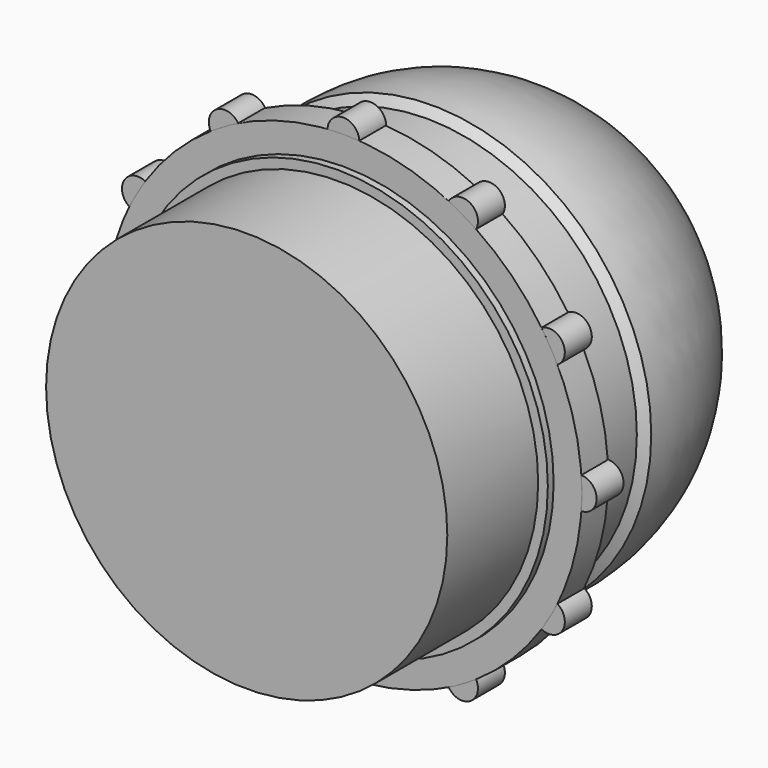
from build123d import *

# Parameters (mm, degrees)
SKETCH001_R        = 4.007612
PAD_DEPTH          = 8.5
POLARPATTERN_COUNT = 12


with BuildPart() as part:
    # Sketch → Revolution (revolve)
    with BuildSketch(Plane.XY):
        with BuildLine():
            Line((55.236058, 58.551815), (52.99765, 56.810364))
            Line((52.99765, 56.810364), (52.99765, 38.823368))
            Line((52.99765, 38.823368), (60.170532, 38.823368))
            Line((60.170532, 38.823368), (60.170532, 30.492123))
            Line((60.170532, 30.492123), (53.057545, 30.492123))
            Line((53.057545, 30.492123), (53.057545, 28.663067))
            Line((53.057545, 28.663067), (50.618809, 28.663067))
            Line((50.618809, 28.663067), (50.618809, 0))
            Line((50.618809, 0), (0, 0))
            Line((0, 0), (0, 58.55183))
            Line((0, 113.787847), (0, 58.55183))
            ThreePointArc((55.236058, 58.551815), (40.402433, 98.954241), (0, 113.787847))
        make_face()
    revolve(axis=Axis((0, 0, 0), (0, 1, 0)))

    # Sketch001 → Pad (new body)
    with BuildSketch(Plane.XZ.offset(-30.5)):
        with Locations((0, 59.889767)):
            Circle(SKETCH001_R)
    pad = extrude(amount=-PAD_DEPTH)

    # PolarPattern: Pad ×12 about axis
    polarpattern_axis = Axis((0, 30.5, 0), (0, -1, 0))
    for i in range(1, POLARPATTERN_COUNT):
        add(pad.rotate(polarpattern_axis, i * 360 / POLARPATTERN_COUNT))


solid = part.part
